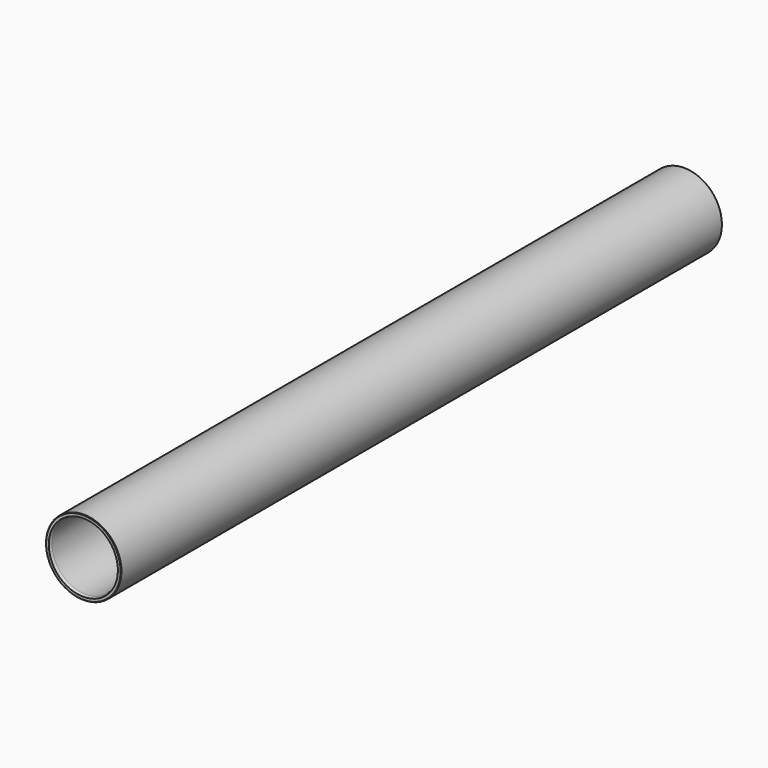
from build123d import *

# Parameters (mm, degrees)
F0_R     = 37.65
F0_R_2   = 33.7
F1_DEPTH = 375
F2_SIZE2 = 0.8038475773
F2_SIZE  = 3
F3_SIZE  = 0.5


with BuildPart() as f1:
    # F0 (on Front) → F1 (new body, symmetric)
    with BuildSketch(Plane.XZ):
        Circle(F0_R)
        Circle(F0_R_2, mode=Mode.SUBTRACT)
    extrude(amount=F1_DEPTH, both=True)

    # F2
    f2_edges = [f1.edges().sort_by_distance(p)[0] for p in [
        (-33.7, -375, 0),
        (-33.7, 375, 0),
    ]]
    f2_side = f1.faces().sort_by_distance((-33.7, 0, 0))[0]
    chamfer(f2_edges, length=F2_SIZE, length2=F2_SIZE2, reference=f2_side)

    # F3
    f3_edges = [f1.edges().sort_by_distance(p)[0] for p in [
        (-37.65, -375, 0),
        (-37.65, 375, 0),
    ]]
    chamfer(f3_edges, length=F3_SIZE)


solid = f1.part
